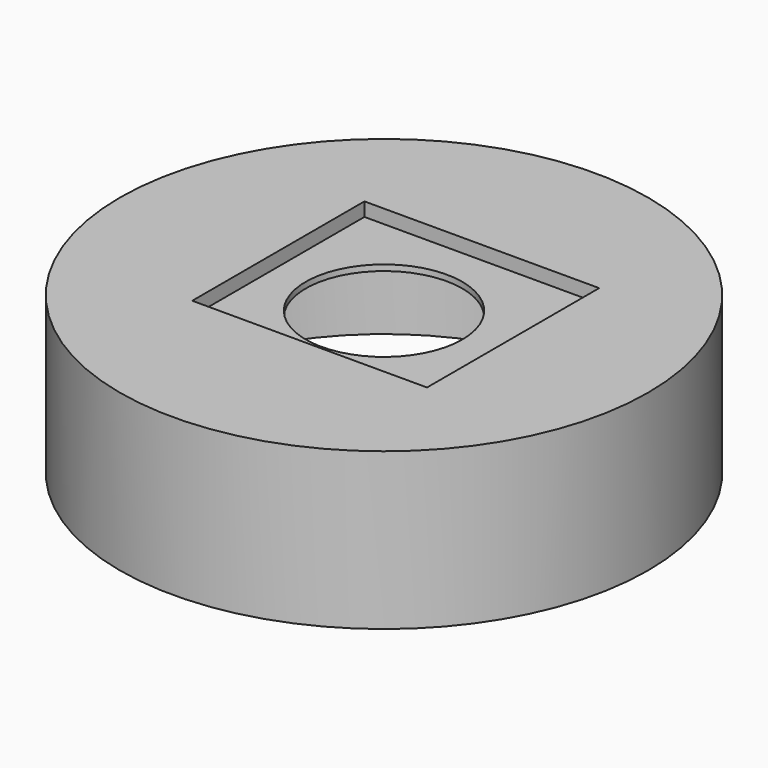
from build123d import *

# Parameters (mm, degrees)
F0_R     = 13.5
F1_DEPTH = 8
F2_R     = 12
F3_DEPTH = 7
F4_W     = 12
F4_H     = 11
F5_DEPTH = 0.7
F6_R     = 4
F7_DEPTH = 0.3


with BuildPart() as f1:
    # F0 (on Top) → F1 (new body)
    with BuildSketch(Plane.XY):
        Circle(F0_R)
    extrude(amount=F1_DEPTH)

    # F2 (on face) → F3 (cut)
    with BuildSketch(Plane(origin=(0, 0, 0), x_dir=(1, 0, 0), z_dir=(0, 0, -1))):
        Circle(F2_R)
    extrude(amount=-F3_DEPTH, mode=Mode.SUBTRACT)

    # F4 (on face) → F5 (cut)
    with BuildSketch(Plane.XY.offset(8)):
        with Locations((0.328328, 0.338116)):
            Rectangle(F4_W, F4_H)
    extrude(amount=-F5_DEPTH, mode=Mode.SUBTRACT)

    # F6 (on face) → F7 (cut)
    with BuildSketch(Plane.XY.offset(7.3)):
        Circle(F6_R)
    extrude(amount=-F7_DEPTH, mode=Mode.SUBTRACT)


solid = f1.part
